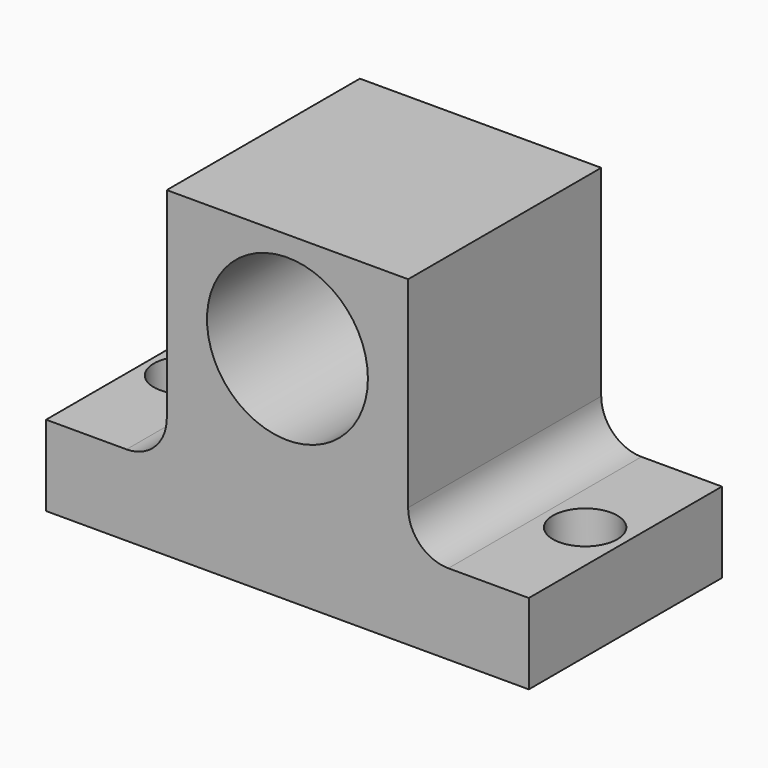
from build123d import *

# Parameters (mm, degrees)
F0_W     = 30
F0_H     = 15
F1_DEPTH = 20
F2_W     = 7.5
F2_H     = 15
F3_DEPTH = 15.001
F4_R     = 2.5
F5_R     = 5
F6_DEPTH = 15.001
F7_R     = 2
F8_DEPTH = 5.001


with BuildPart() as f1:
    # F0 (on Top) → F1 (new body)
    with BuildSketch(Plane.XY):
        with Locations((6.22725, -8.80266)):
            Rectangle(F0_W, F0_H)
    extrude(amount=F1_DEPTH)

    # F2 (on face) → F3 (cut, through all)
    with BuildSketch(Plane.XZ.offset(16.30266)):
        with Locations((-5.02275, 12.5)):
            Rectangle(F2_W, F2_H)
        with Locations((17.47725, 12.5)):
            Rectangle(F2_W, F2_H)
    extrude(amount=-F3_DEPTH, mode=Mode.SUBTRACT)

    # F4
    f4_edges = [f1.edges().sort_by_distance(p)[0] for p in [
        (13.72725, -8.80266, 5),
        (-1.27275, -8.80266, 5),
    ]]
    fillet(f4_edges, radius=F4_R)

    # F5 (on face) → F6 (cut, through all)
    with BuildSketch(Plane.XZ.offset(16.30266)):
        with Locations((6.22725, 13.75)):
            Circle(F5_R)
    extrude(amount=-F6_DEPTH, mode=Mode.SUBTRACT)

    # F7 (on face) → F8 (cut, through all)
    with BuildSketch(Plane.XY.offset(5)):
        with Locations((-6.37797, -8.425979)):
            Circle(F7_R)
        with Locations((18.72725, -8.80266)):
            Circle(F7_R)
    extrude(amount=-F8_DEPTH, mode=Mode.SUBTRACT)


solid = f1.part
